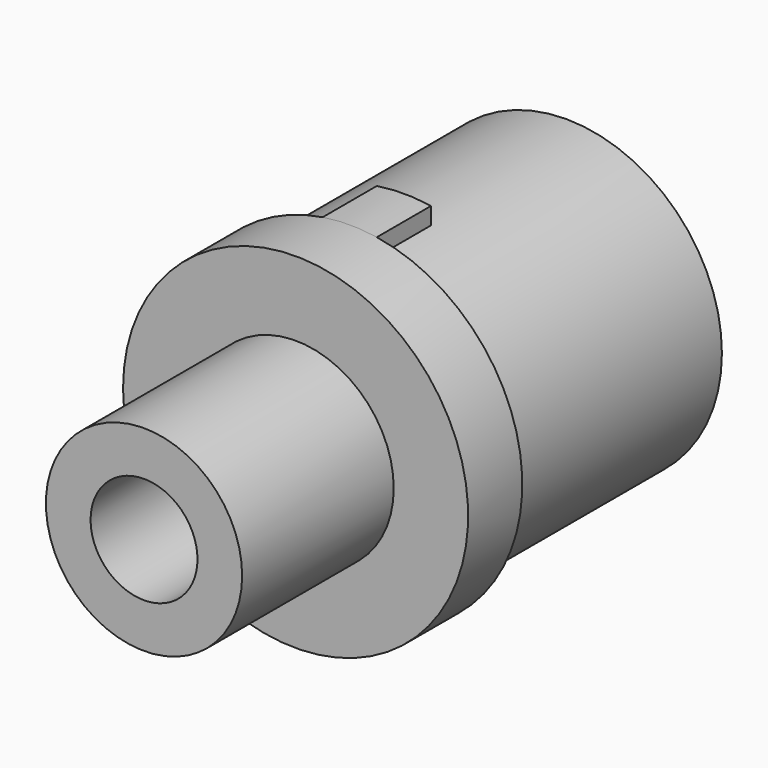
from build123d import *

# Parameters (mm, degrees)
F0_R      = 7.25
F1_DEPTH  = 14
F3_R      = 3
F4_DEPTH  = 14.001
F6_R      = 12.75
F7_DEPTH  = 25
F8_R      = 3.95
F9_DEPTH  = 39.001
F10_R     = 12.75
F10_R_2   = 11.5
F11_DEPTH = 20
F13_DEPTH = 5


with BuildPart() as f1:
    # F0 (on Front) → F1 (new body)
    with BuildSketch(Plane.XZ):
        Circle(F0_R)
    extrude(amount=F1_DEPTH)

    # F3 (on face) → F4 (cut, through all)
    with BuildSketch(Plane.XZ.offset(14)):
        Circle(F3_R)
    extrude(amount=-F4_DEPTH, mode=Mode.SUBTRACT)

    # F6 (on offset) → F7 (join)
    with BuildSketch(Plane(origin=(0, 0, 0), x_dir=(-1, 0, 0), z_dir=(0, 1, 0))):
        Circle(F6_R)
    extrude(amount=F7_DEPTH)

    # F8 (on face) → F9 (cut, through all)
    with BuildSketch(Plane(origin=(0, 25, 0), x_dir=(-1, 0, 0), z_dir=(0, 1, 0))):
        Circle(F8_R)
    extrude(amount=-F9_DEPTH, mode=Mode.SUBTRACT)

    # F10 (on face) → F11 (cut)
    with BuildSketch(Plane(origin=(0, 25, 0), x_dir=(-1, 0, 0), z_dir=(0, 1, 0))):
        Circle(F10_R)
        Circle(F10_R_2, mode=Mode.SUBTRACT)
    extrude(amount=-F11_DEPTH, mode=Mode.SUBTRACT)

    # F12 (on face) → F13 (join)
    with BuildSketch(Plane(origin=(0, 5, 0), x_dir=(-1, 0, 0), z_dir=(0, 1, 0))):
        with BuildLine():
            ThreePointArc((2, 12.5921602595), (0, 12.75), (-2, 12.5921602595))
            Line((-2, 12.5921602595), (-2, 11.3247516529))
            ThreePointArc((-2, 11.3247516529), (0, 11.5), (2, 11.3247516529))
            Line((2, 11.3247516529), (2, 12.5921602595))
        make_face()
        with BuildLine():
            Line((-2, -11.3247516529), (-2, -12.5921602595))
            ThreePointArc((-2, -12.5921602595), (0, -12.75), (2, -12.5921602595))
            Line((2, -12.5921602595), (2, -11.3247516529))
            ThreePointArc((2, -11.3247516529), (0, -11.5), (-2, -11.3247516529))
        make_face()
    extrude(amount=F13_DEPTH)


solid = f1.part
